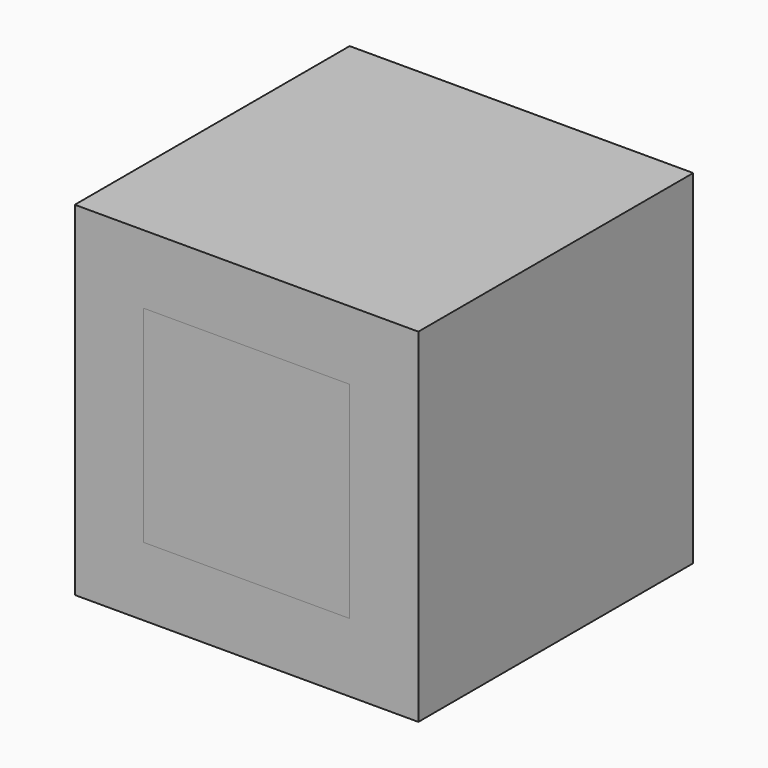
from build123d import *

# Parameters (mm, degrees)
F0_W     = 25.4
F0_H     = 25.4
F0_H_2   = 76.2
F0_W_2   = 76.2
F1_DEPTH = 127
F2_DEPTH = 25.4


with BuildPart() as f1:
    # F0 (on Front) → F1 (new body)
    with BuildSketch(Plane.XZ):
        Polygon((-38.1, -63.5), (-38.1, -38.1), (-63.5, -38.1), (-63.5, -63.5), (-40.9058220685, -63.5), align=None)
        with Locations((50.8, 50.8)):
            Rectangle(F0_W, F0_H)
        with Locations((50.8, -50.8)):
            Rectangle(F0_W, F0_H)
        with Locations((-50.8, 0)):
            Rectangle(F0_W, F0_H_2)
        with Locations((0, -50.8)):
            Rectangle(F0_W_2, F0_H)
        with Locations((50.8, 0)):
            Rectangle(F0_W, F0_H_2)
        Polygon((-38.1, 38.1), (-38.1, 63.5), (-40.9058220685, 63.5), (-63.5, 63.5), (-63.5, 38.1), align=None)
        with Locations((0, 50.8)):
            Rectangle(F0_W_2, F0_H)
    extrude(amount=-F1_DEPTH)


with BuildPart() as f2:
    # F0 (on Front) → F2 (new body)
    with BuildSketch(Plane.XZ):
        Rectangle(F0_W_2, F0_H_2)
    extrude(amount=-F2_DEPTH)


solid = Compound([f1.part, f2.part])
